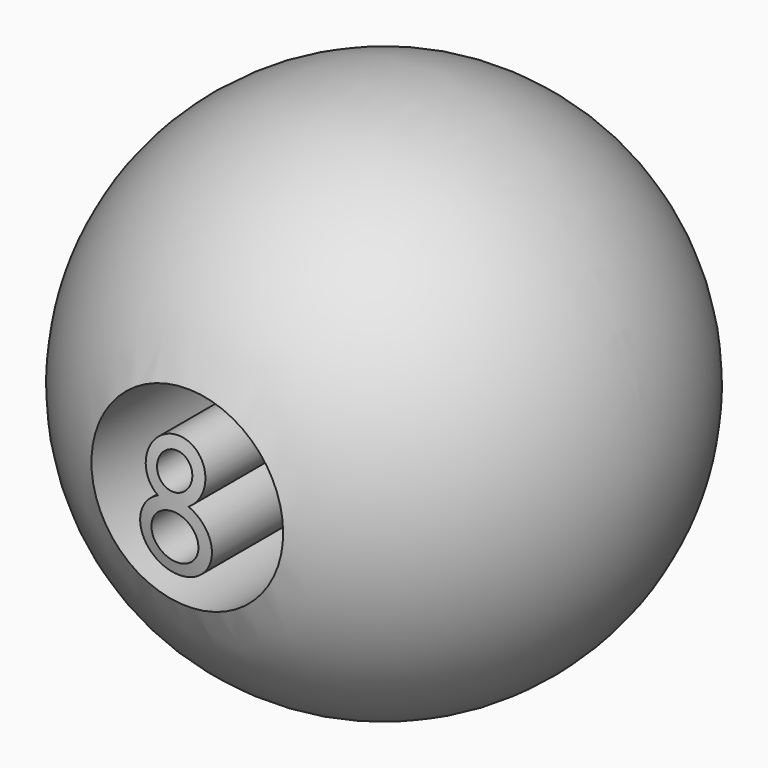
from build123d import *

# Parameters (mm, degrees)
F2_R     = 10
F3_DEPTH = 27.4852500417
F4_R     = 1.8315852812
F4_R_2   = 2.4433835159
F5_DEPTH = 27.5293034423


with BuildPart() as f1:
    # F0 (on Front) → F1 (revolve)
    with BuildSketch(Plane.XZ):
        with BuildLine():
            Line((-27.533114626, 0), (27.533114626, 0))
            ThreePointArc((27.533114626, 0), (0, 27.533114626), (-27.533114626, 0))
        make_face()
    revolve(axis=Axis((6.374521181, 0, 0), (1, 0, 0)))

    # F2 (on Front) → F3 (cut, through all)
    with BuildSketch(Plane.XZ):
        Circle(F2_R)
        with BuildLine():
            ThreePointArc((-1.5828419389, 0.4278055021), (0, 6.193420209), (1.5828419389, 0.4278055021))
            ThreePointArc((1.5828419389, 0.4278055021), (0, -6.6799922122), (-1.5828419389, 0.4278055021))
        make_face(mode=Mode.SUBTRACT)
    extrude(amount=F3_DEPTH, mode=Mode.SUBTRACT)

    # F4 (on Front) → F5 (cut, through all)
    with BuildSketch(Plane.XZ):
        with Locations((0, 3.1033086125)):
            Circle(F4_R)
        with Locations((0, -2.9580835253)):
            Circle(F4_R_2)
    extrude(amount=F5_DEPTH, mode=Mode.SUBTRACT)


solid = f1.part
